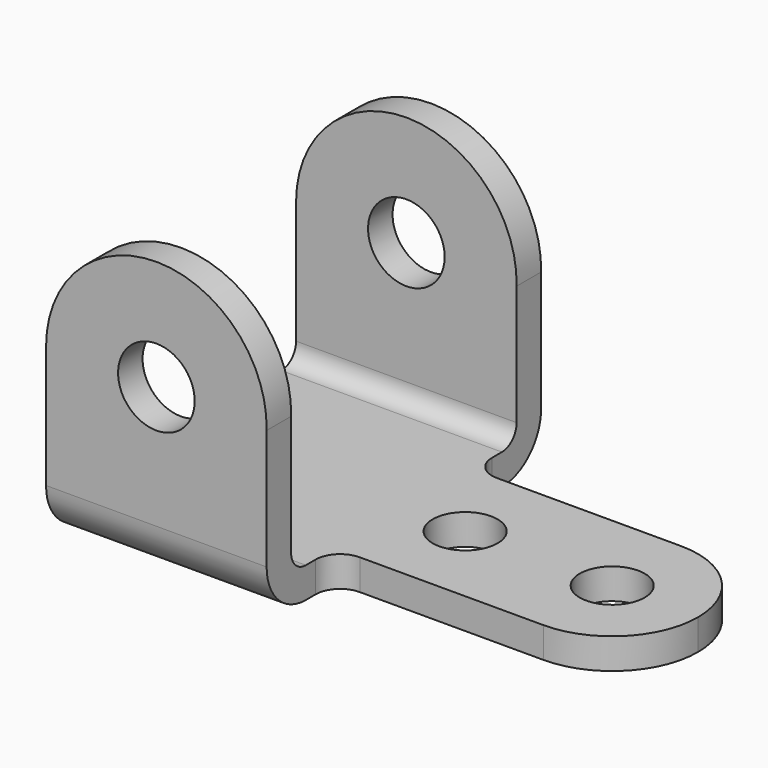
from build123d import *

# Parameters (mm, degrees)
F0_R          = 9.92251
F1_DEPTH      = 44.45
F2_R          = 8.4181384748
F3_DEPTH      = 7.9385
F4_W          = 73.025
F4_H          = 68.6028956175
F5_DEPTH      = 57.1444816201
F5_DEPTH_BACK = 76.201
F6_R          = 12.7
F7_R          = 4.7625


with BuildPart() as f1:
    # F0 (on Front) → F1 (new body, symmetric)
    with BuildSketch(Plane.XZ):
        with BuildLine():
            Line((0, 44.45), (0, 0))
            Line((0, 0), (133.3434816201, 0))
            Line((133.3434816201, 0), (133.3434816201, 7.9375))
            Line((133.3434816201, 7.9375), (57.1434816201, 7.9375))
            Line((57.1434816201, 7.9375), (57.1434816201, 43.8396862105))
            ThreePointArc((57.1434816201, 43.8396862105), (28.880174299, 73.0233703586), (0, 44.45))
        make_face()
        with Locations((28.575, 44.45)):
            Circle(F0_R, mode=Mode.SUBTRACT)
    extrude(amount=F1_DEPTH, both=True)

    # F2 (on face) → F3 (cut, through all)
    with BuildSketch(Plane.XY.offset(7.9375)):
        with BuildLine():
            ThreePointArc((57.1434816201, 28.575), (59.0033535596, 24.0848719395), (63.4934816201, 22.225))
            Line((63.4934816201, 22.225), (111.1184816201, 22.225))
            ThreePointArc((111.1184816201, 22.225), (126.8339299175, 15.7154481263), (133.3434816201, -2.42e-07))
            Line((133.3434816201, -2.42e-07), (133.3434816201, 44.45))
            Line((133.3434816201, 44.45), (57.1434816201, 44.45))
            Line((57.1434816201, 44.45), (57.1434816201, 36.5125))
            Line((57.1434816201, 36.5125), (57.1434816201, 28.575))
        make_face()
        with BuildLine():
            Line((133.3434816201, -44.45), (133.3434816201, -2.42e-07))
            ThreePointArc((133.3434816201, -2.42e-07), (126.8339297464, -15.7154482974), (111.1184816201, -22.225))
            Line((111.1184816201, -22.225), (63.4934816201, -22.225))
            ThreePointArc((63.4934816201, -22.225), (59.0033535596, -24.0848719395), (57.1434816201, -28.575))
            Line((57.1434816201, -28.575), (57.1434816201, -36.5125))
            Line((57.1434816201, -36.5125), (57.1434816201, -44.45))
            Line((57.1434816201, -44.45), (133.3434816201, -44.45))
        make_face()
        with Locations((73.0184816201, 0)):
            Circle(F2_R)
        with Locations((111.1184816201, 0)):
            Circle(F2_R)
    extrude(amount=-F3_DEPTH, mode=Mode.SUBTRACT)

    # F4 (on face) → F5 (cut, two sides)
    with BuildSketch(Plane.YZ.offset(57.1434816201)) as f5_sk:
        with Locations((0, 42.2389478087)):
            Rectangle(F4_W, F4_H)
    extrude(amount=-F5_DEPTH, mode=Mode.SUBTRACT)
    extrude(f5_sk.sketch, amount=F5_DEPTH_BACK, mode=Mode.SUBTRACT)

    # F6
    f6_edges = [f1.edges().sort_by_distance(p)[0] for p in [
        (28.571741, -44.45, 0),
        (28.571741, 44.45, 0),
    ]]
    fillet(f6_edges, radius=F6_R)

    # F7
    f7_edges = [f1.edges().sort_by_distance(p)[0] for p in [
        (28.571741, 36.5125, 7.9375),
        (28.571741, -36.5125, 7.9375),
    ]]
    fillet(f7_edges, radius=F7_R)


solid = f1.part
